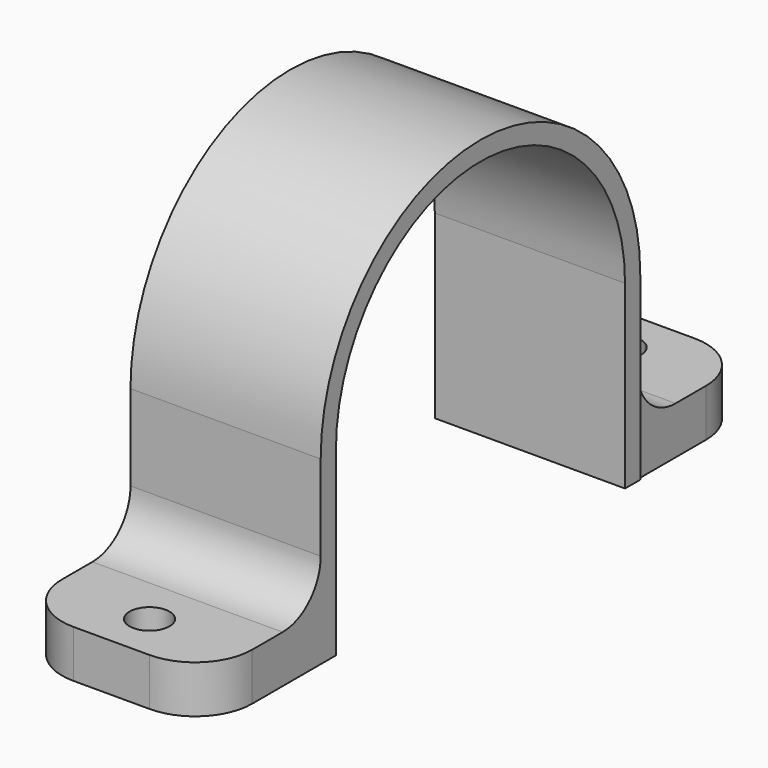
from build123d import *

# Parameters (mm, degrees)
PAD001_DEPTH    = 20
POCKET_DEPTH    = 20
SKETCH003_W     = 5
SKETCH003_H     = 20
PAD002_DEPTH    = 15
SKETCH004_W     = 5
SKETCH004_H     = 19.712328
PAD003_DEPTH    = 15
FILLET_R        = 5
FILLET001_R     = 5
SKETCH005_R     = 2.1
POCKET001_DEPTH = 7
FILLET002_R     = 6


with BuildPart() as part:
    # Sketch001 → Pad001 (new body)
    with BuildSketch(Plane.YZ):
        with BuildLine():
            ThreePointArc((21, 0), (0, 21), (-21, 0))
            Line((-21, 0), (-21, -19))
            Line((21, -19), (-21, -19))
            Line((21, 0), (21, -19))
        make_face()
    extrude(amount=PAD001_DEPTH)

    # Sketch002 (on Face5 of Pad001) → Pocket (cut)
    with BuildSketch(Plane(origin=(0, 0, 0), x_dir=(0, 1, 0), z_dir=(-1, 0, 0))):
        with BuildLine():
            ThreePointArc((-19, 0), (0, -19), (19, 0))
            Line((19, 0), (19, 19))
            Line((-19, 19), (19, 19))
            Line((-19, 0), (-19, 19))
        make_face()
    extrude(amount=-POCKET_DEPTH, mode=Mode.SUBTRACT)

    # Sketch003 (on Face3 of Pocket) → Pad002 (join)
    with BuildSketch(Plane(origin=(0, -21, 0), x_dir=(0, 0, -1), z_dir=(0, -1, 0))):
        with Locations((16.5, 10)):
            Rectangle(SKETCH003_W, SKETCH003_H)
    extrude(amount=PAD002_DEPTH)

    # Sketch004 (on Face2 of Pad002) → Pad003 (join)
    with BuildSketch(Plane.ZX.offset(21)):
        with Locations((-16.558334, 9.856164)):
            Rectangle(SKETCH004_W, SKETCH004_H)
    extrude(amount=PAD003_DEPTH)

    # Fillet
    fillet_edges = [part.edges().sort_by_distance(p)[0] for p in [
        (9.856164, 21, -14.058334),
    ]]
    fillet(fillet_edges, radius=FILLET_R)

    # Fillet001
    fillet001_edges = [part.edges().sort_by_distance(p)[0] for p in [
        (10, -21, -14),
    ]]
    fillet(fillet001_edges, radius=FILLET001_R)

    # Sketch005 (on Face14 of Fillet001) → Pocket001 (cut)
    with BuildSketch(Plane(origin=(0, 0, -14), x_dir=(0, -1, 0), z_dir=(0, 0, 1))):
        with Locations((30.997393, 10)):
            Circle(SKETCH005_R)
        with Locations((-30.985943, 10)):
            Circle(SKETCH005_R)
    extrude(amount=-POCKET001_DEPTH, mode=Mode.SUBTRACT)

    # Fillet002
    fillet002_edges = [part.edges().sort_by_distance(p)[0] for p in [
        (0, 36, -16.558334),
        (19.712328, 36, -16.558334),
        (0, -36, -16.5),
        (20, -36, -16.5),
    ]]
    fillet(fillet002_edges, radius=FILLET002_R)


solid = part.part
